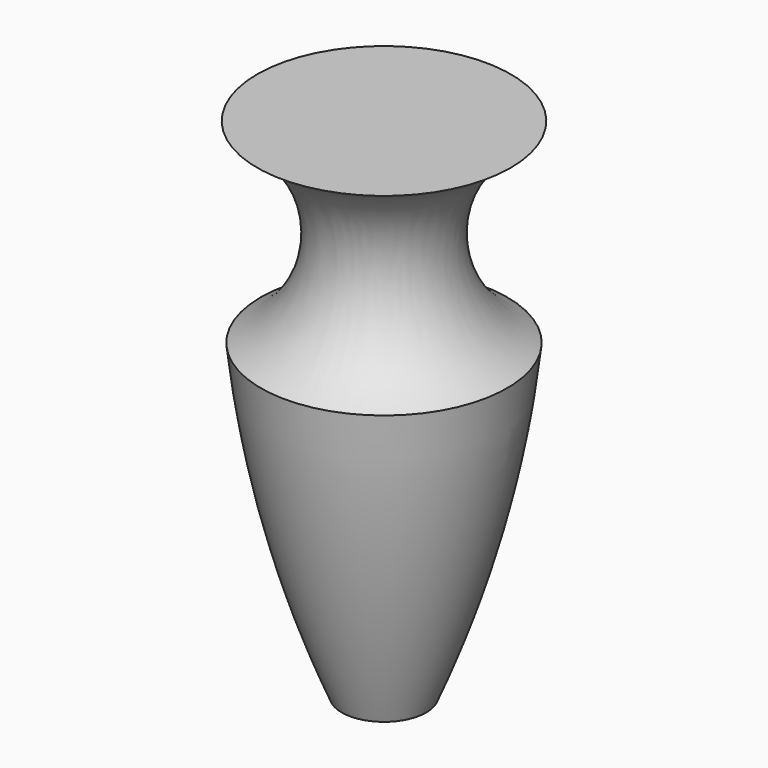
from build123d import *


with BuildPart() as f1:
    # F0 (on Front) → F1 (revolve)
    with BuildSketch(Plane.XZ):
        with BuildLine():
            Line((0, 86.288048), (-38.1, 86.288048))
            ThreePointArc((-38.1, 86.288048), (-19.412969, 57.291042), (-37.02424, 27.628361))
            ThreePointArc((-37.02424, 27.628361), (-28.308857, -20.136173), (-12.7, -66.111952))
            Line((-12.7, -66.111952), (0, -66.111952))
            Line((0, -66.111952), (0, 86.288048))
        make_face()
    revolve(axis=Axis((0, 0, -4.326098), (0, 0, 1)))


solid = f1.part
